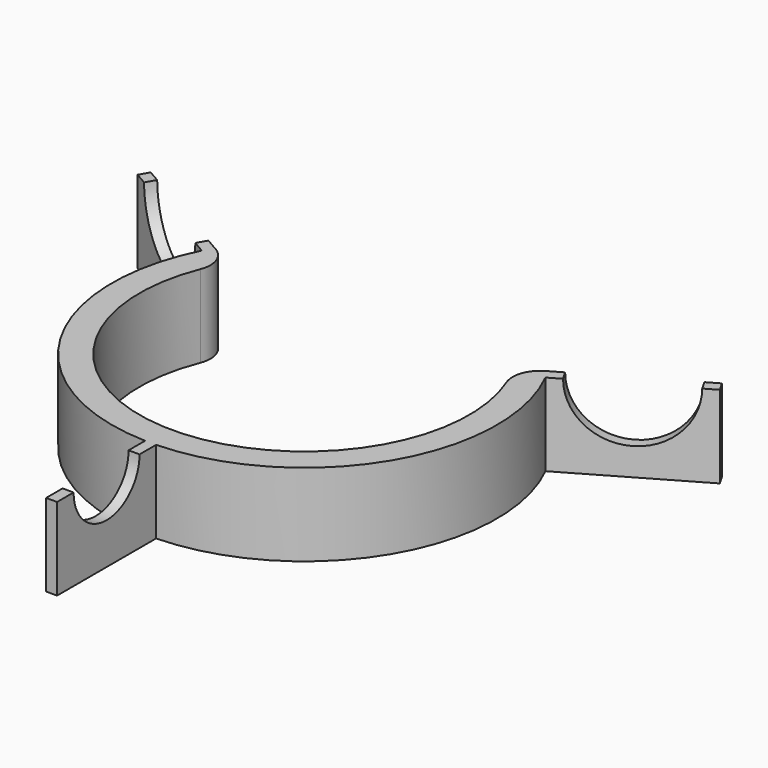
from build123d import *

# Parameters (mm, degrees)
F1_DEPTH = 15
F3_DEPTH = 54.4625242271
F5_DEPTH = 54.4625242271
F7_DEPTH = 53.9625242271
F8_R     = 5


with BuildPart() as f1:
    # F0 (on Top) → F1 (new body)
    with BuildSketch(Plane.XY):
        with BuildLine():
            Line((-25.9807621135, 15), (-30.3108891325, 17.5))
            ThreePointArc((-30.3108891325, 17.5), (-30.7987090687, 16.6264704522), (-31.2613615027, 15.7393544021))
            ThreePointArc((-31.2613615027, 15.7393544021), (-30.057560378, -17.9316219045), (-1, -34.9857113691))
            Line((-1, -34.9857113691), (-1, -32.5))
            Line((-1, -32.5), (1, -32.5))
            Line((1, -32.5), (1, -34.9857113691))
            ThreePointArc((1, -34.9857113691), (30.057560378, -17.9316219045), (31.2613615027, 15.7393544021))
            ThreePointArc((31.2613615027, 15.7393544021), (30.7987090687, 16.6264704522), (30.3108891325, 17.5))
            Line((30.3108891325, 17.5), (25.9807621135, 15))
            ThreePointArc((25.9807621135, 15), (0, -30), (-25.9807621135, 15))
        make_face()
        with BuildLine():
            ThreePointArc((-31.2613615027, 15.7393544021), (-30.7987090687, 16.6264704522), (-30.3108891325, 17.5))
            Line((-30.3108891325, 17.5), (-51.9615242271, 30))
            Line((-51.9615242271, 30), (-52.9615242271, 28.2679491924))
            Line((-52.9615242271, 28.2679491924), (-31.2613615027, 15.7393544021))
        make_face()
        with BuildLine():
            Line((-1, -32.5), (-1, -34.9857113691))
            ThreePointArc((-1, -34.9857113691), (0, -35), (1, -34.9857113691))
            Line((1, -34.9857113691), (1, -32.5))
            Line((1, -32.5), (-1, -32.5))
        make_face()
        with BuildLine():
            ThreePointArc((1, -34.9857113691), (0, -35), (-1, -34.9857113691))
            Line((-1, -34.9857113691), (-1, -57.5))
            Line((-1, -57.5), (1, -57.5))
            Line((1, -57.5), (1, -34.9857113691))
        make_face()
        with BuildLine():
            Line((51.9615242271, 30), (30.3108891325, 17.5))
            ThreePointArc((30.3108891325, 17.5), (30.7987090687, 16.6264704522), (31.2613615027, 15.7393544021))
            Line((31.2613615027, 15.7393544021), (52.9615242271, 28.2679491924))
            Line((52.9615242271, 28.2679491924), (51.9615242271, 30))
        make_face()
    extrude(amount=F1_DEPTH)

    # F2 (on face) → F3 (cut, through all)
    with BuildSketch(Plane(origin=(-1, -1.7320508076, 0), x_dir=(0.8660254038, -0.5, 0), z_dir=(-0.5, -0.8660254038, 0))):
        with BuildLine():
            Line((-37.4714052097, 15), (-57.4714052097, 15))
            ThreePointArc((-57.4714052097, 15), (-47.4714052097, 5), (-37.4714052097, 15))
        make_face()
    extrude(amount=-F3_DEPTH, mode=Mode.SUBTRACT)

    # F4 (on face) → F5 (cut, through all)
    with BuildSketch(Plane(origin=(1, -1.7320508076, 0), x_dir=(0.8660254038, 0.5, 0), z_dir=(0.5, -0.8660254038, 0))):
        with BuildLine():
            Line((57.4714052097, 15), (37.4714052097, 15))
            ThreePointArc((37.4714052097, 15), (47.4714052097, 5), (57.4714052097, 15))
        make_face()
    extrude(amount=-F5_DEPTH, mode=Mode.SUBTRACT)

    # F6 (on face) → F7 (cut, through all)
    with BuildSketch(Plane.YZ.offset(1)):
        with BuildLine():
            Line((-38.7428556845, 15), (-53.7428556845, 15))
            ThreePointArc((-53.7428556845, 15), (-46.2428556845, 7.5), (-38.7428556845, 15))
        make_face()
    extrude(amount=-F7_DEPTH, mode=Mode.SUBTRACT)

    # F8
    f8_edges = [f1.edges().sort_by_distance(p)[0] for p in [
        (-25.980762, 15, 7.5),
        (25.980762, 15, 7.5),
    ]]
    fillet(f8_edges, radius=F8_R)


solid = f1.part
